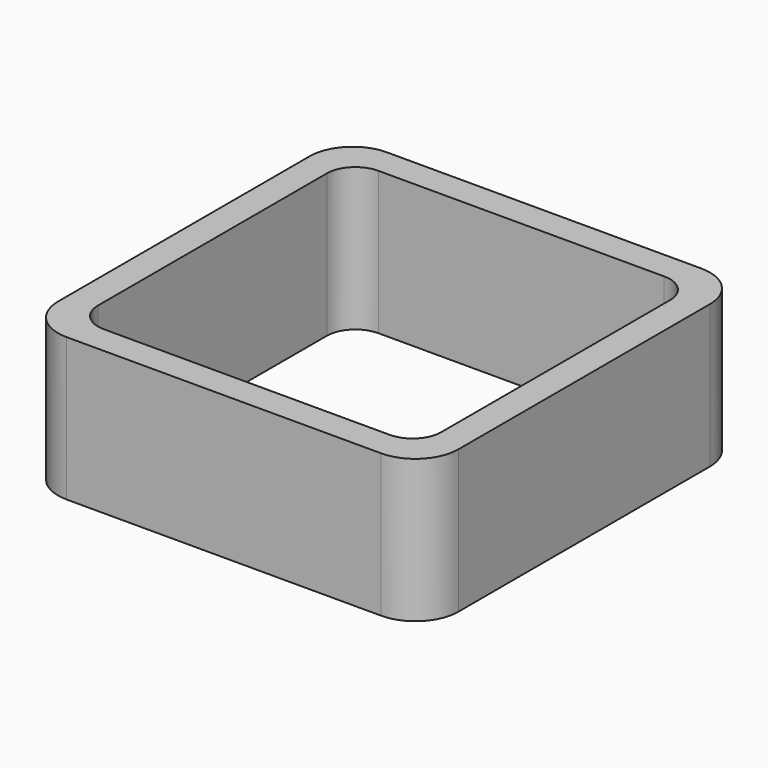
from build123d import *

# Parameters (mm, degrees)
EXTRUDE_DEPTH = 50


with BuildPart() as part:
    # Sketch → Extrude (new body)
    with BuildSketch(Plane.XY):
        with BuildLine():
            Line((-55, 70), (55, 70))
            ThreePointArc((70, 55), (65.606602, 65.606602), (55, 70))
            Line((70, 55), (70, -55))
            ThreePointArc((55, -70), (65.606602, -65.606602), (70, -55))
            Line((55, -70), (-55, -70))
            ThreePointArc((-70, -55), (-65.606602, -65.606602), (-55, -70))
            Line((-70, -55), (-70, 55))
            ThreePointArc((-55, 70), (-65.606602, 65.606602), (-70, 55))
        make_face()
        with BuildLine():
            Line((-50, 60), (50, 60))
            ThreePointArc((60, 50), (57.071068, 57.071068), (50, 60))
            Line((60, 50), (60, -50))
            ThreePointArc((50, -60), (57.071068, -57.071068), (60, -50))
            Line((50, -60), (-50, -60))
            ThreePointArc((-60, -50), (-57.071068, -57.071068), (-50, -60))
            Line((-60, -50), (-60, 50))
            ThreePointArc((-50, 60), (-57.071068, 57.071068), (-60, 50))
        make_face(mode=Mode.SUBTRACT)
    extrude(amount=EXTRUDE_DEPTH)


solid = part.part
